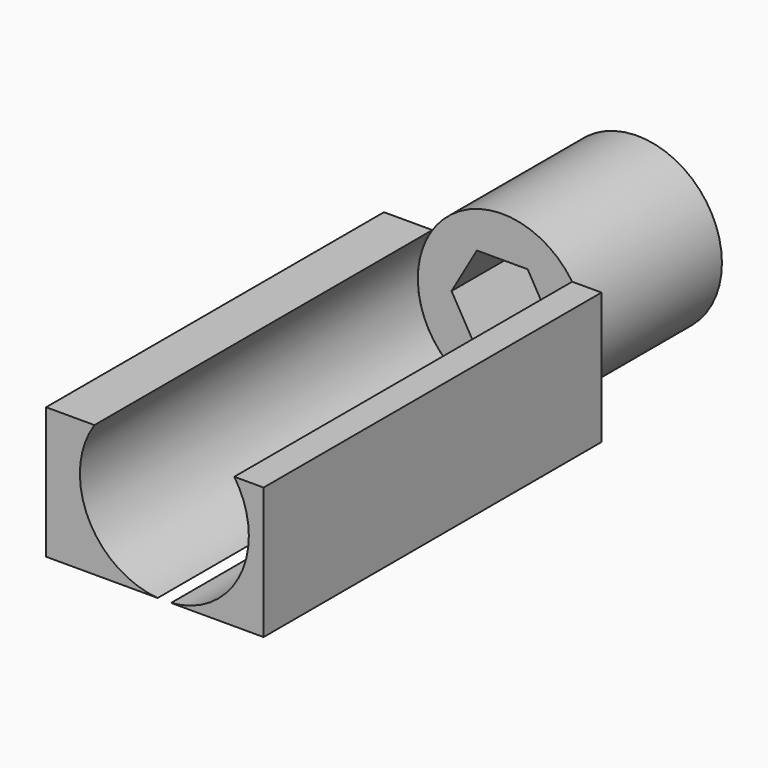
from build123d import *

# Parameters (mm, degrees)
F0_R     = 5
F1_DEPTH = 10
F3_DEPTH = 25


with BuildPart() as f1:
    # F0 (on Front) → F1 (new body)
    with BuildSketch(Plane.XZ):
        Circle(F0_R)
        Polygon((-3.002221, 0), (-1.501111, 2.6), (1.501111, 2.6), (3.002221, 0), (1.501111, -2.6), (-1.501111, -2.6), align=None, mode=Mode.SUBTRACT)
    extrude(amount=F1_DEPTH)


with BuildPart() as f3:
    # F2 (on face) → F3 (new body)
    with BuildSketch(Plane.XZ.offset(10)):
        with BuildLine():
            Line((-4.137537, 2.807274), (-7.000998, 2.807274))
            Line((-7.000998, 2.807274), (-7.000998, -4.984333))
            Line((-7.000998, -4.984333), (-0.395509, -4.984333))
            ThreePointArc((-0.395509, -4.984333), (-4.507151, -2.164622), (-4.137537, 2.807274))
        make_face()
        with BuildLine():
            Line((5.872068, 2.807274), (4.137537, 2.807274))
            ThreePointArc((4.137537, 2.807274), (4.779523, 1.468386), (5, 0))
            ThreePointArc((5, 0), (3.672706, -3.39282), (0.395509, -4.984333))
            Line((0.395509, -4.984333), (5.872068, -4.984333))
            Line((5.872068, -4.984333), (5.872068, 2.807274))
        make_face()
    extrude(amount=F3_DEPTH)


solid = Compound([f1.part, f3.part])
